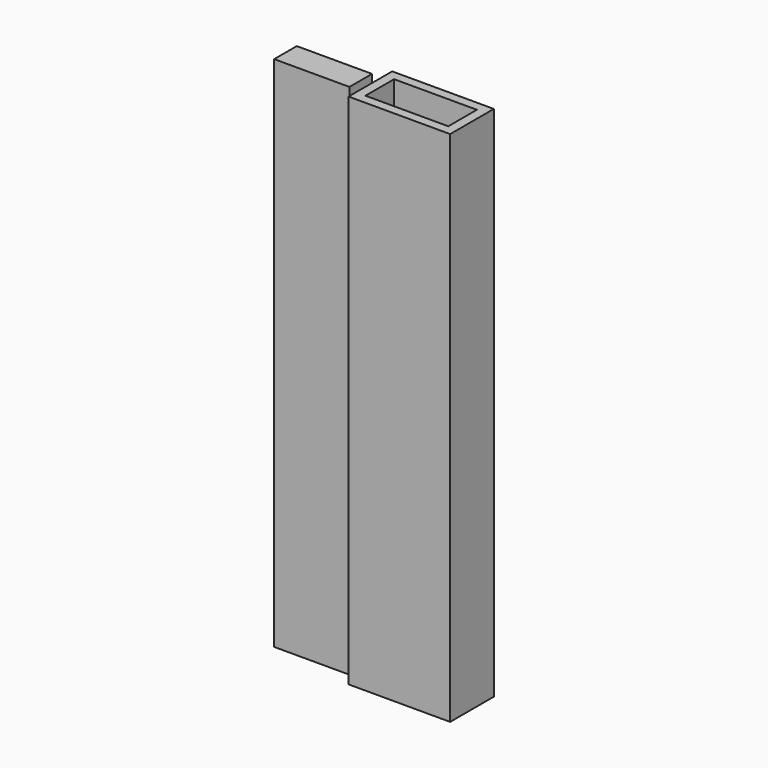
from build123d import *

# Parameters (mm, degrees)
F0_W     = 8
F0_H     = 3
F1_DEPTH = 55
F0_W_2   = 10.8
F0_H_2   = 5.8
F2_T     = -1


with BuildPart() as f1:
    # F0 (on Top) → F1 (new body)
    with BuildSketch(Plane.XY):
        with Locations((-7.5276658908, 1.5)):
            Rectangle(F0_W, F0_H)
    extrude(amount=F1_DEPTH)


with BuildPart() as f1b:
    # F0 (on Top) → F1, piece 2 (new body)
    with BuildSketch(Plane.XY):
        with Locations((2.8954485707, 1.5)):
            Rectangle(F0_W_2, F0_H_2)
    extrude(amount=F1_DEPTH)

    # F2
    f2_openings = [f1b.faces().sort_by_distance(p)[0] for p in [
        (2.895449, 1.5, 55),
    ]]
    offset(amount=F2_T, openings=f2_openings)


solid = Compound([f1.part, f1b.part])
